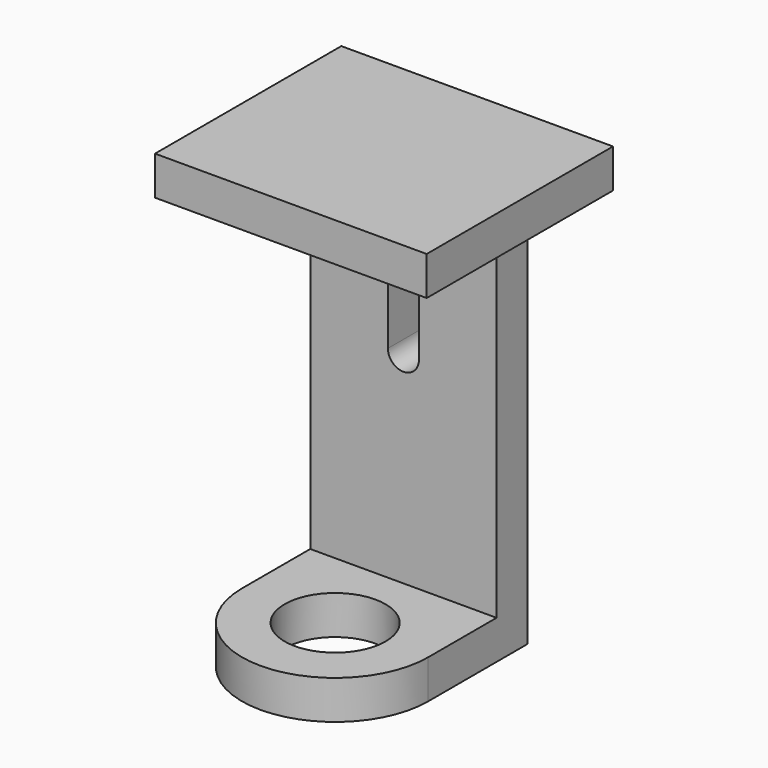
from build123d import *

# Parameters (mm, degrees)
F0_R     = 6.5
F1_DEPTH = 5
F2_W     = 24
F2_H     = 5
F3_DEPTH = 50
F5_DEPTH = 5.001
F6_W     = 24
F6_H     = 5
F7_DEPTH = 5


with BuildPart() as f1:
    # F0 (on Top) → F1 (new body)
    with BuildSketch(Plane.XY):
        with BuildLine():
            Line((-12, 16), (-12, 0))
            ThreePointArc((-12, 0), (0, -12), (12, 0))
            Line((12, 0), (12, 16))
            Line((12, 16), (-12, 16))
        make_face()
        Circle(F0_R, mode=Mode.SUBTRACT)
    extrude(amount=F1_DEPTH)

    # F2 (on face) → F3 (join)
    with BuildSketch(Plane.XY.offset(5)):
        with Locations((0, 13.5)):
            Rectangle(F2_W, F2_H)
    extrude(amount=F3_DEPTH)

    # F4 (on face) → F5 (cut, through all)
    with BuildSketch(Plane.XZ.offset(-11)):
        with BuildLine():
            ThreePointArc((2, 41), (0, 43), (-2, 41))
            Line((-2, 41), (-2, 31))
            ThreePointArc((-2, 31), (0, 29), (2, 31))
            Line((2, 31), (2, 41))
        make_face()
    extrude(amount=-F5_DEPTH, mode=Mode.SUBTRACT)

    # F6 (on face) → F7 (join)
    with BuildSketch(Plane.XY.offset(55)):
        Polygon((23, 16), (12, 16), (12, 11), (-12, 11), (-12, -14), (23, -14), align=None)
        with Locations((0, 13.5)):
            Rectangle(F6_W, F6_H)
    extrude(amount=F7_DEPTH)


solid = f1.part
